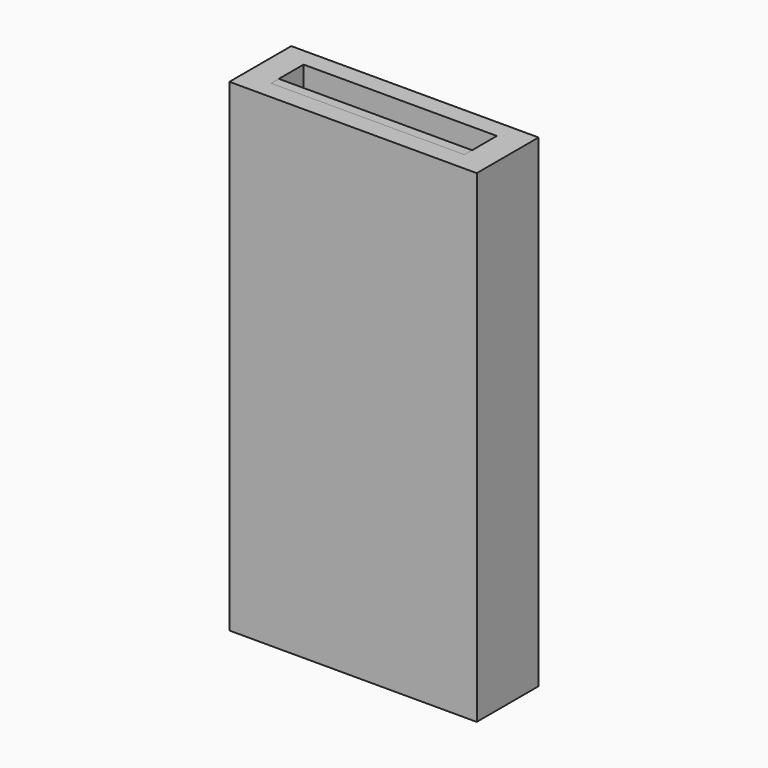
from build123d import *

# Parameters (mm, degrees)
F1_DEPTH = 12.5
F0_W     = 5
F0_H     = 1.6
F2_DEPTH = 2.5
F3_W     = 12.8
F3_H     = 4
F4_DEPTH = 12.5


with BuildPart() as f1:
    # F0 (on Top) → F1 (new body, symmetric)
    with BuildSketch(Plane.XY):
        Polygon((-2.5, 0.5), (-5, 0.5), (-5, 0), (5, 0), (5, 0.5), (2.5, 0.5), align=None)
    extrude(amount=F1_DEPTH, both=True)

    # F0 (on Top) → F2 (join, symmetric)
    with BuildSketch(Plane.XY):
        with Locations((0, 1.3)):
            Rectangle(F0_W, F0_H)
    extrude(amount=F2_DEPTH, both=True)


with BuildPart() as f4:
    # F3 (on Top) → F4 (new body, symmetric)
    with BuildSketch(Plane.XY):
        with Locations((0, 1.05)):
            Rectangle(F3_W, F3_H)
        Polygon((-5, 1.05), (-5, 2.1), (5, 2.1), (5, 1.05), (5, 0), (-5, 0), align=None, mode=Mode.SUBTRACT)
    extrude(amount=F4_DEPTH, both=True)


solid = Compound([f1.part, f4.part])
